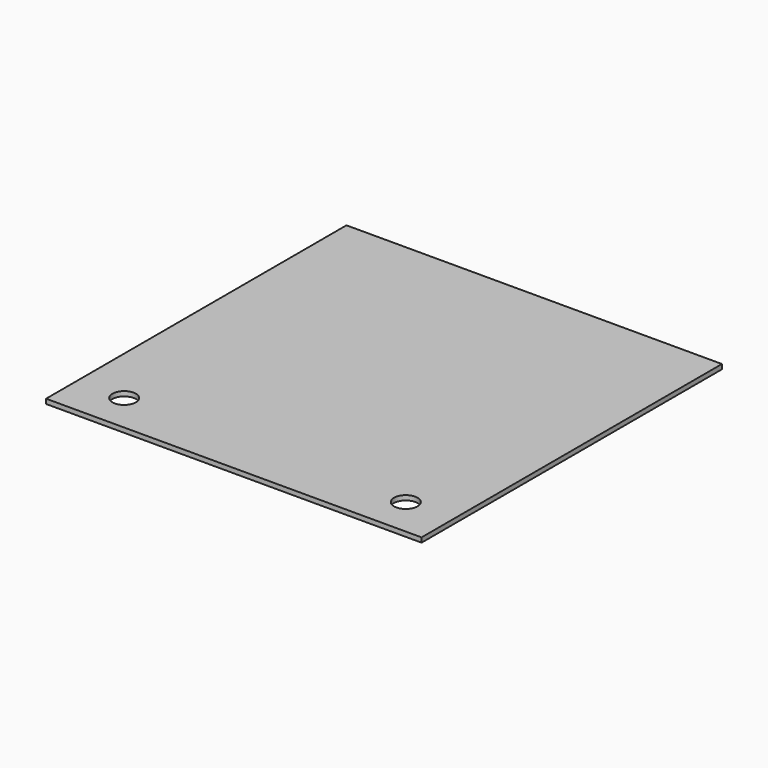
from build123d import *

# Parameters (mm, degrees)
F0_W     = 203.2
F0_H     = 203.2
F1_DEPTH = 2.54
F3_DEPTH = 25.4
F2_R     = 6.35
F4_DEPTH = 25.4


with BuildPart() as f1:
    # F0 (on Top) → F1 (new body)
    with BuildSketch(Plane.XY):
        with Locations((-101.6, 101.6)):
            Rectangle(F0_W, F0_H)
    extrude(amount=F1_DEPTH)

    # F2 (on face) → F3 (cut)
    with BuildSketch(Plane.XY.offset(2.54)):
        with BuildLine():
            ThreePointArc((-184.15, 21.083737), (-177.8, 14.733737), (-171.45, 21.083737))
            ThreePointArc((-171.45, 21.083737), (-177.8, 27.433737), (-184.15, 21.083737))
        make_face()
    extrude(amount=-F3_DEPTH, mode=Mode.SUBTRACT)

    # F2 (on face) → F4 (cut)
    with BuildSketch(Plane.XY.offset(2.54)):
        with BuildLine():
            ThreePointArc((-184.15, 21.083737), (-177.8, 14.733737), (-171.45, 21.083737))
            ThreePointArc((-171.45, 21.083737), (-177.8, 27.433737), (-184.15, 21.083737))
        make_face()
        with Locations((-25.4, 21.083737)):
            Circle(F2_R)
    extrude(amount=-F4_DEPTH, mode=Mode.SUBTRACT)


solid = f1.part
